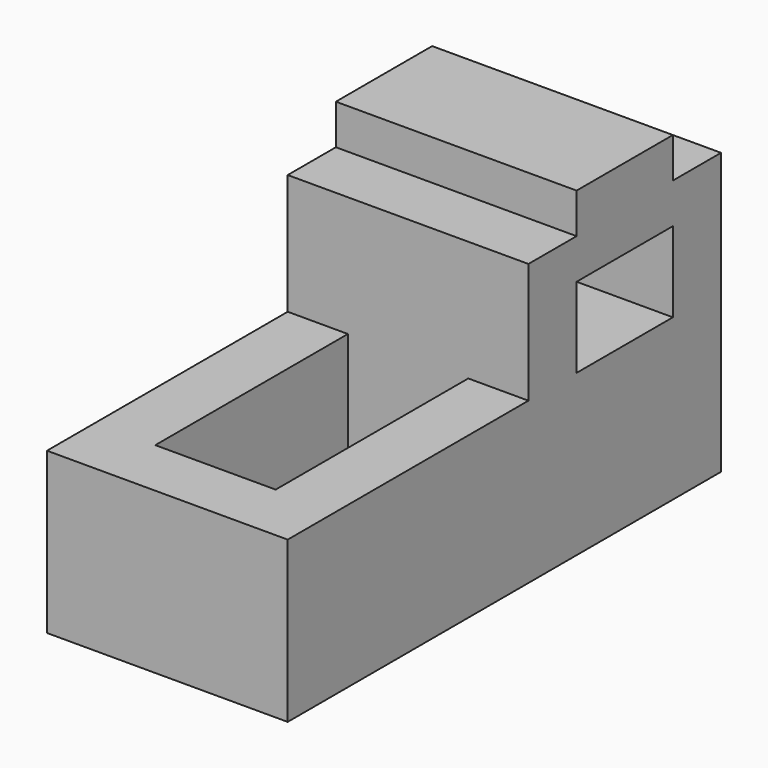
from build123d import *

# Parameters (mm, degrees)
F0_W     = 2743.2
F0_H     = 1625.6
F1_DEPTH = 1219.2
F2_W     = 609.6
F2_H     = 406.4
F3_DEPTH = 1219.201
F4_W     = 304.8
F4_H     = 203.2
F5_DEPTH = 1219.201
F7_DEPTH = 1219.201
F8_W     = 609.6
F8_H     = 1219.2
F9_DEPTH = 609.6


with BuildPart() as f1:
    # F0 (on Right) → F1 (new body)
    with BuildSketch(Plane.YZ):
        with Locations((1295.494674, 737.740251)):
            Rectangle(F0_W, F0_H)
    extrude(amount=F1_DEPTH)

    # F2 (on face) → F3 (cut, through all)
    with BuildSketch(Plane.YZ.offset(1219.2)):
        with Locations((2057.494674, 940.940251)):
            Rectangle(F2_W, F2_H)
    extrude(amount=-F3_DEPTH, mode=Mode.SUBTRACT)

    # F4 (on face) → F5 (cut, through all)
    with BuildSketch(Plane.YZ.offset(1219.2)):
        with Locations((2514.694674, 1448.940251)):
            Rectangle(F4_W, F4_H)
        with Locations((1600.294674, 1448.940251)):
            Rectangle(F4_W, F4_H)
    extrude(amount=-F5_DEPTH, mode=Mode.SUBTRACT)

    # F6 (on face) → F7 (cut, through all)
    with BuildSketch(Plane.YZ.offset(1219.2)):
        Polygon((-76.105326, 1550.540251), (-76.105326, 737.740251), (1447.894674, 737.740251), (1447.894674, 1347.340251), (1447.894674, 1550.540251), align=None)
    extrude(amount=-F7_DEPTH, mode=Mode.SUBTRACT)

    # F8 (on face) → F9 (cut)
    with BuildSketch(Plane.XY.offset(737.740251)):
        with Locations((609.6, 838.294674)):
            Rectangle(F8_W, F8_H)
    extrude(amount=-F9_DEPTH, mode=Mode.SUBTRACT)


solid = f1.part
